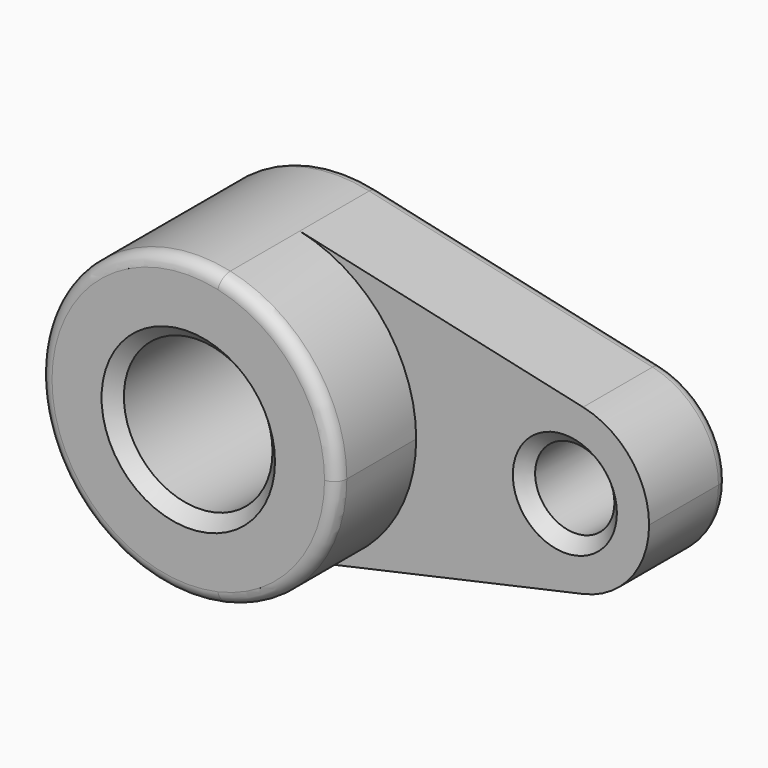
from build123d import *

# Parameters (mm, degrees)
F0_R     = 9.525
F0_R_2   = 5.08
F1_DEPTH = 12.7
F2_DEPTH = 25.4
F3_R     = 1.5875
F4_SIZE  = 1.5875


with BuildPart() as f1:
    # F0 (on Front) → F1 (new body)
    with BuildSketch(Plane.XZ):
        with BuildLine():
            ThreePointArc((4.1275, -18.597479), (14.858186, -11.922114), (19.05, 0))
            ThreePointArc((19.05, 0), (14.858186, 11.922114), (4.1275, 18.597479))
            ThreePointArc((4.1275, 18.597479), (-19.05, 0), (4.1275, -18.597479))
        make_face()
        Circle(F0_R, mode=Mode.SUBTRACT)
        with BuildLine():
            ThreePointArc((4.1275, 18.597479), (14.858186, 11.922114), (19.05, 0))
            ThreePointArc((19.05, 0), (14.858186, -11.922114), (4.1275, -18.597479))
            Line((4.1275, -18.597479), (40.438917, -10.538572))
            ThreePointArc((40.438917, -10.538572), (27.305, 0), (40.438917, 10.538572))
            Line((40.438917, 10.538572), (4.1275, 18.597479))
        make_face()
        with BuildLine():
            ThreePointArc((48.895, 0), (46.519639, 6.755865), (40.438917, 10.538572))
            ThreePointArc((40.438917, 10.538572), (27.305, 0), (40.438917, -10.538572))
            ThreePointArc((40.438917, -10.538572), (46.519639, -6.755865), (48.895, 0))
        make_face()
        with Locations((38.1, 0)):
            Circle(F0_R_2, mode=Mode.SUBTRACT)
    extrude(amount=F1_DEPTH)

    # F0 (on Front) → F2 (join)
    with BuildSketch(Plane.XZ):
        with BuildLine():
            ThreePointArc((4.1275, -18.597479), (14.858186, -11.922114), (19.05, 0))
            ThreePointArc((19.05, 0), (14.858186, 11.922114), (4.1275, 18.597479))
            ThreePointArc((4.1275, 18.597479), (-19.05, 0), (4.1275, -18.597479))
        make_face()
        Circle(F0_R, mode=Mode.SUBTRACT)
    extrude(amount=F2_DEPTH)

    # F3
    f3_edges = [f1.edges().sort_by_distance(p)[0] for p in [
        (-4.1275, -25.4, 18.597479),
        (-19.05, 0, 0),
        (22.283208, 0, 14.568026),
        (48.895, 0, 0),
        (22.283208, 0, -14.568026),
    ]]
    fillet(f3_edges, radius=F3_R)

    # F4
    f4_edges = [f1.edges().sort_by_distance(p)[0] for p in [
        (-9.525, -25.4, 0),
        (33.02, -12.7, 0),
    ]]
    chamfer(f4_edges, length=F4_SIZE)


solid = f1.part
